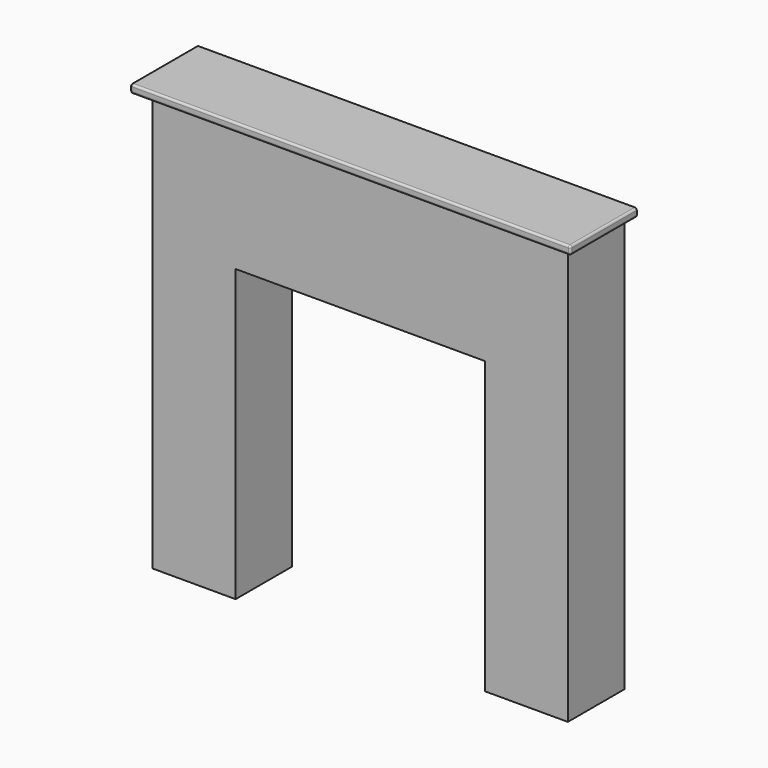
from build123d import *

# Parameters (mm, degrees)
F1_DEPTH = 170
F2_W     = 1060
F2_H     = 200
F3_DEPTH = 20
F4_R     = 5
F5_R     = 5
F6_R     = 5
F7_R     = 5


with BuildPart() as f1:
    # F0 (on Front) → F1 (new body)
    with BuildSketch(Plane.XZ):
        Polygon((500, 1010), (0, 1010), (-500, 1010), (-500, 0), (-300, 0), (-300, 700), (0, 700), (300, 700), (300, 0), (500, 0), align=None)
    extrude(amount=F1_DEPTH)

    # F2 (on face) → F3 (join)
    with BuildSketch(Plane.XY.offset(1010)):
        with Locations((0, -100)):
            Rectangle(F2_W, F2_H)
    extrude(amount=F3_DEPTH)

    # F4
    f4_edges = [f1.edges().sort_by_distance(p)[0] for p in [
        (0, -200, 1010),
    ]]
    fillet(f4_edges, radius=F4_R)

    # F5
    f5_edges = [f1.edges().sort_by_distance(p)[0] for p in [
        (0, -200, 1030),
    ]]
    fillet(f5_edges, radius=F5_R)

    # F6
    f6_edges = [f1.edges().sort_by_distance(p)[0] for p in [
        (530, -97.5, 1030),
    ]]
    fillet(f6_edges, radius=F6_R)

    # F7
    f7_edges = [f1.edges().sort_by_distance(p)[0] for p in [
        (-530, -97.5, 1030),
    ]]
    fillet(f7_edges, radius=F7_R)


solid = f1.part
